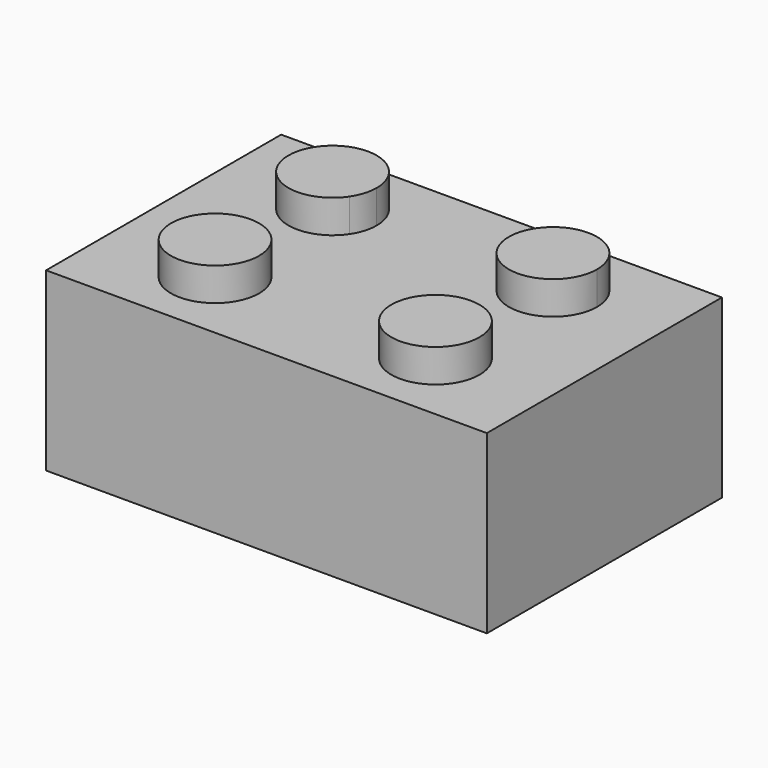
from build123d import *

# Parameters (mm, degrees)
F0_W     = 24
F0_H     = 16
F1_DEPTH = 9.6
F2_R     = 2.4
F3_DEPTH = 1.8


with BuildPart() as f1:
    # F0 (on Top) → F1 (new body)
    with BuildSketch(Plane.XY):
        with Locations((-12, 8)):
            Rectangle(F0_W, F0_H)
    extrude(amount=F1_DEPTH)

    # F2 (on face) → F3 (join)
    with BuildSketch(Plane.XY.offset(9.6)):
        with BuildLine():
            ThreePointArc((-19.9969207064, 13.3312804709), (-19.3312804709, 10.0030792936), (-16.0030792936, 10.6687195291))
            Line((-16.0030792936, 10.6687195291), (-19.9969207064, 13.3312804709))
        make_face()
        with BuildLine():
            Line((-19.9969207064, 13.3312804709), (-16.0030792936, 10.6687195291))
            ThreePointArc((-16.0030792936, 10.6687195291), (-15.7029791364, 11.3045180431), (-15.6, 12))
            ThreePointArc((-15.6, 12), (-17.3045180431, 14.2970208636), (-19.9969207064, 13.3312804709))
        make_face()
        with BuildLine():
            ThreePointArc((-4.0030792936, 13.3312804709), (-7.3312804709, 13.9969207064), (-7.9969207064, 10.6687195291))
            Line((-7.9969207064, 10.6687195291), (-4.0030792936, 13.3312804709))
        make_face()
        with BuildLine():
            Line((-4.0030792936, 13.3312804709), (-7.9969207064, 10.6687195291))
            ThreePointArc((-7.9969207064, 10.6687195291), (-5.3045180431, 9.7029791364), (-3.6, 12))
            ThreePointArc((-3.6, 12), (-3.7029791364, 12.6954819569), (-4.0030792936, 13.3312804709))
        make_face()
        with Locations((-6, 4)):
            Circle(F2_R)
        with Locations((-18, 4)):
            Circle(F2_R)
    extrude(amount=F3_DEPTH)


solid = f1.part
